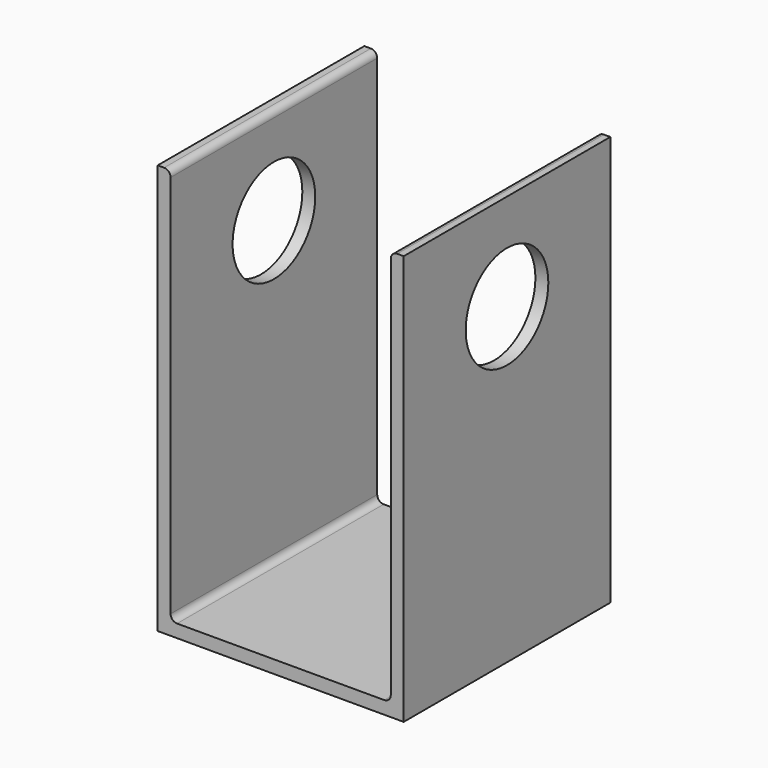
from build123d import *

# Parameters (mm, degrees)
F1_DEPTH = 80
F2_R     = 16
F3_DEPTH = 85


with BuildPart() as f1:
    # F0 (on Front) → F1 (new body)
    with BuildSketch(Plane.XZ):
        with BuildLine():
            Line((-38.1, 127), (-38.1, 0))
            Line((-38.1, 0), (0, 0))
            Line((0, 0), (38.1, 0))
            Line((38.1, 0), (38.1, 127))
            Line((38.1, 127), (36.1, 127))
            ThreePointArc((36.1, 127), (34.685786, 126.414214), (34.1, 125))
            Line((34.1, 125), (34.1, 6))
            ThreePointArc((34.1, 6), (33.514214, 4.585786), (32.1, 4))
            Line((32.1, 4), (0, 4))
            Line((0, 4), (-32.1, 4))
            ThreePointArc((-32.1, 4), (-33.514214, 4.585786), (-34.1, 6))
            Line((-34.1, 6), (-34.1, 125))
            ThreePointArc((-34.1, 125), (-34.685786, 126.414214), (-36.1, 127))
            Line((-36.1, 127), (-38.1, 127))
        make_face()
    extrude(amount=F1_DEPTH)

    # F2 (on face) → F3 (cut)
    with BuildSketch(Plane.YZ.offset(38.1)):
        with Locations((-40, 97)):
            Circle(F2_R)
    extrude(amount=-F3_DEPTH, mode=Mode.SUBTRACT)


solid = f1.part
